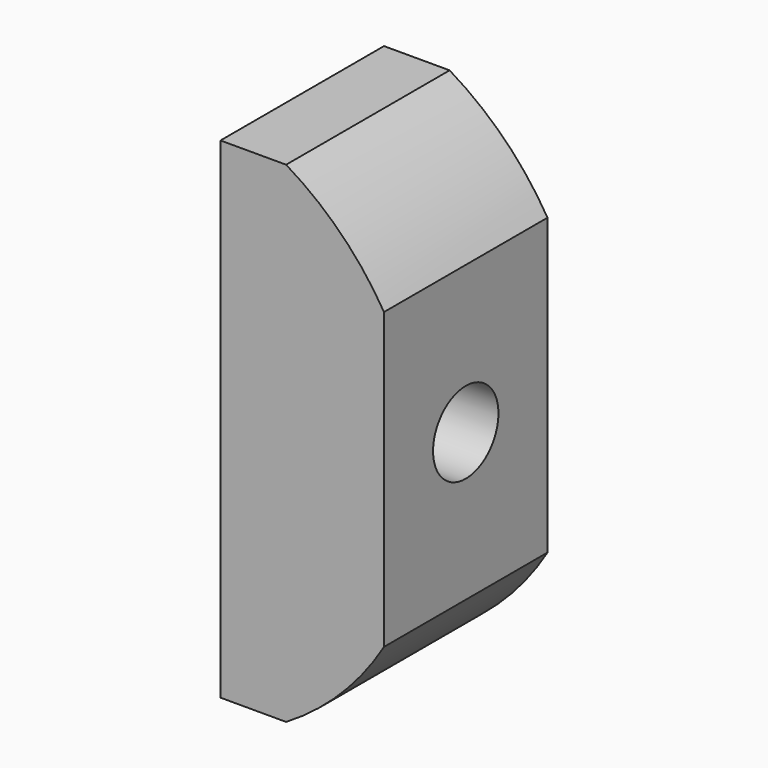
from build123d import *

# Parameters (mm, degrees)
F1_DEPTH = 10
F2_R     = 2
F3_DEPTH = 25


with BuildPart() as f1:
    # F0 (on Front) → F1 (new body)
    with BuildSketch(Plane.XZ):
        with BuildLine():
            Line((7.211103, 12), (4, 12))
            Line((4, 12), (4, -12))
            Line((4, -12), (7.211103, -12))
            ThreePointArc((7.211103, -12), (9.899495, -9.899495), (12, -7.211103))
            Line((12, -7.211103), (12, 7.211103))
            ThreePointArc((12, 7.211103), (9.899495, 9.899495), (7.211103, 12))
        make_face()
    extrude(amount=-F1_DEPTH)

    # F2 (on face) → F3 (cut)
    with BuildSketch(Plane(origin=(4, 0, 0), x_dir=(0, -1, 0), z_dir=(-1, 0, 0))):
        with Locations((-5, 0)):
            Circle(F2_R)
    extrude(amount=-F3_DEPTH, mode=Mode.SUBTRACT)


solid = f1.part
